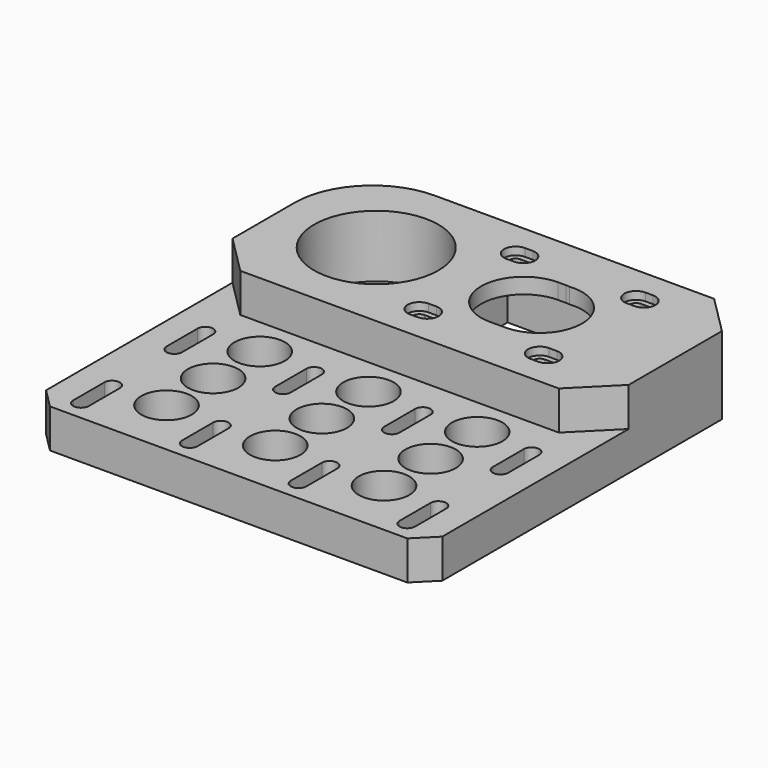
from build123d import *

# Parameters (mm, degrees)
SKETCH071_W                        = 102
SKETCH071_H                        = 105
SKETCH071_R                        = 11
SKETCH071_R_2                      = 13.5
PAD028_DEPTH                       = 20
SKETCH072_W                        = 102
SKETCH072_H                        = 55
POCKET037_DEPTH                    = 10
SKETCH073_W                        = 42
SKETCH073_H                        = 42
POCKET038_DEPTH                    = 16
POCKET039_DEPTH                    = 315.493809
POCKET039_LINEARPATTERN002_2_DEPTH = 315.493809
POCKET039_LINEARPATTERN002_3_DEPTH = 315.493809
POCKET039_LINEARPATTERN002_4_DEPTH = 315.493809
LINEARPATTERN003_COUNT             = 2
LINEARPATTERN003_PITCH             = 30
SKETCH075_R                        = 1.6
POCKET040_DEPTH                    = 4.001
CHAMFER006_SIZE                    = 5
CHAMFER007_SIZE                    = 10
FILLET004_R                        = 20
SKETCH076_R                        = 16
POCKET041_DEPTH                    = 16
SKETCH077_R                        = 3
POCKET042_DEPTH                    = 2
POCKET043_DEPTH                    = 4.001
SKETCH079_W                        = 4
SKETCH079_H                        = 42
POCKET044_DEPTH                    = 16
POCKET045_DEPTH                    = 2
POCKET046_DEPTH                    = 20.001
SKETCH082_R                        = 6.5
POCKET047_DEPTH                    = 8
SKETCH082_LINEARPATTERN004_2_R     = 6.5
POCKET047_LINEARPATTERN004_2_DEPTH = 8
SKETCH082_LINEARPATTERN004_3_R     = 6.5
POCKET047_LINEARPATTERN004_3_DEPTH = 8
LINEARPATTERN005_COUNT             = 3
LINEARPATTERN005_PITCH             = 15


with BuildPart() as part:
    # Sketch071 → Pad028 (new body)
    with BuildSketch(Plane.XY):
        with Locations((-14, -27.5)):
            Rectangle(SKETCH071_W, SKETCH071_H)
        with Locations((2, 0)):
            Circle(SKETCH071_R, mode=Mode.SUBTRACT)
        with Locations((-40, 0)):
            Circle(SKETCH071_R_2, mode=Mode.SUBTRACT)
    extrude(amount=PAD028_DEPTH)

    # Sketch072 (on Face8 of Pad028) → Pocket037 (cut)
    with BuildSketch(Plane.XY.offset(20)):
        with Locations((-14, -52.5)):
            Rectangle(SKETCH072_W, SKETCH072_H)
    extrude(amount=-POCKET037_DEPTH, mode=Mode.SUBTRACT)

    # Sketch073 (on Face2 of Pocket037) → Pocket038 (cut)
    with BuildSketch(Plane(origin=(0, 0, 0), x_dir=(1, 0, 0), z_dir=(0, 0, -1))):
        with Locations((2, 0)):
            Rectangle(SKETCH073_W, SKETCH073_H)
    extrude(amount=-POCKET038_DEPTH, mode=Mode.SUBTRACT)

    # Sketch074 (on Face2 of Pocket038) → Pocket039 (cut, through all)
    with BuildSketch(Plane(origin=(0, 0, 0), x_dir=(1, 0, 0), z_dir=(0, 0, -1))):
        with BuildLine():
            ThreePointArc((26, 35), (28, 33), (30, 35))
            Line((30, 35), (30, 45))
            ThreePointArc((30, 45), (28, 47), (26, 45))
            Line((26, 35), (26, 45))
        make_face()
    pocket039 = extrude(amount=-POCKET039_DEPTH, mode=Mode.SUBTRACT)

    # Sketch074 LinearPattern002 2 → Pocket039 LinearPattern002 2 (cut, through all)
    with BuildSketch(Plane(origin=(-28, 0, 0), x_dir=(1, 0, 0), z_dir=(0, 0, -1))):
        with BuildLine():
            ThreePointArc((26, 35), (28, 33), (30, 35))
            Line((30, 35), (30, 45))
            ThreePointArc((30, 45), (28, 47), (26, 45))
            Line((26, 35), (26, 45))
        make_face()
    pocket039_linearpattern002_2 = extrude(amount=-POCKET039_LINEARPATTERN002_2_DEPTH, mode=Mode.SUBTRACT)

    # Sketch074 LinearPattern002 3 → Pocket039 LinearPattern002 3 (cut, through all)
    with BuildSketch(Plane(origin=(-56, 0, 0), x_dir=(1, 0, 0), z_dir=(0, 0, -1))):
        with BuildLine():
            ThreePointArc((26, 35), (28, 33), (30, 35))
            Line((30, 35), (30, 45))
            ThreePointArc((30, 45), (28, 47), (26, 45))
            Line((26, 35), (26, 45))
        make_face()
    pocket039_linearpattern002_3 = extrude(amount=-POCKET039_LINEARPATTERN002_3_DEPTH, mode=Mode.SUBTRACT)

    # Sketch074 LinearPattern002 4 → Pocket039 LinearPattern002 4 (cut, through all)
    with BuildSketch(Plane(origin=(-84, 0, 0), x_dir=(1, 0, 0), z_dir=(0, 0, -1))):
        with BuildLine():
            ThreePointArc((26, 35), (28, 33), (30, 35))
            Line((30, 35), (30, 45))
            ThreePointArc((30, 45), (28, 47), (26, 45))
            Line((26, 35), (26, 45))
        make_face()
    pocket039_linearpattern002_4 = extrude(amount=-POCKET039_LINEARPATTERN002_4_DEPTH, mode=Mode.SUBTRACT)

    # LinearPattern003: Pocket039, Pocket039 LinearPattern002 2, Pocket039 LinearPattern002 3, Pocket039 LinearPattern002 4 ×2
    with Locations(*[(0, -i * LINEARPATTERN003_PITCH, 0) for i in range(1, LINEARPATTERN003_COUNT)]):
        add(pocket039, mode=Mode.SUBTRACT)
        add(pocket039_linearpattern002_2, mode=Mode.SUBTRACT)
        add(pocket039_linearpattern002_3, mode=Mode.SUBTRACT)
        add(pocket039_linearpattern002_4, mode=Mode.SUBTRACT)

    # Sketch075 (on Face46 of MultiTransform002) → Pocket040 (cut, through all)
    with BuildSketch(Plane(origin=(0, 0, 16), x_dir=(1, 0, 0), z_dir=(0, 0, -1))):
        with Locations((16.5, 15.5)):
            Circle(SKETCH075_R)
        with Locations((16.5, -15.5)):
            Circle(SKETCH075_R)
        with Locations((-14.5, -15.5)):
            Circle(SKETCH075_R)
        with Locations((-14.5, 15.5)):
            Circle(SKETCH075_R)
    extrude(amount=-POCKET040_DEPTH, mode=Mode.SUBTRACT)

    # Chamfer006
    chamfer006_edges = [part.edges().sort_by_distance(p)[0] for p in [
        (-65, -80, 5),
        (37, -80, 5),
    ]]
    chamfer(chamfer006_edges, length=CHAMFER006_SIZE)

    # Chamfer007
    chamfer007_edges = [part.edges().sort_by_distance(p)[0] for p in [
        (37, -25, 15),
        (37, 25, 10),
        (-65, -25, 15),
    ]]
    chamfer(chamfer007_edges, length=CHAMFER007_SIZE)

    # Fillet004
    fillet004_edges = [part.edges().sort_by_distance(p)[0] for p in [
        (-65, 25, 10),
    ]]
    fillet(fillet004_edges, radius=FILLET004_R)

    # Sketch076 (on Face47 of Fillet004) → Pocket041 (cut)
    with BuildSketch(Plane.XY.offset(20)):
        with Locations((-40, 0)):
            Circle(SKETCH076_R)
    extrude(amount=-POCKET041_DEPTH, mode=Mode.SUBTRACT)

    # Sketch077 (on Face47 of Pocket041) → Pocket042 (cut)
    with BuildSketch(Plane.XY.offset(20)):
        with Locations((16.5, 15.5)):
            Circle(SKETCH077_R)
        with Locations((-14.5, 15.5)):
            Circle(SKETCH077_R)
        with Locations((-14.5, -15.5)):
            Circle(SKETCH077_R)
        with Locations((16.5, -15.5)):
            Circle(SKETCH077_R)
    extrude(amount=-POCKET042_DEPTH, mode=Mode.SUBTRACT)

    # Sketch078 (on Face52 of Pocket042) → Pocket043 (cut, through all)
    with BuildSketch(Plane(origin=(0, 0, 16), x_dir=(1, 0, 0), z_dir=(0, 0, -1))):
        with BuildLine():
            ThreePointArc((-14.5, -17.1), (-12.9, -15.5), (-14.5, -13.9))
            Line((-14.5, -13.9), (-16.5, -13.9))
            ThreePointArc((-16.5, -13.9), (-18.1, -15.5), (-16.5, -17.1))
            Line((-14.5, -17.1), (-16.5, -17.1))
        make_face()
        with BuildLine():
            ThreePointArc((-14.5, 13.9), (-12.9, 15.5), (-14.5, 17.1))
            Line((-14.5, 17.1), (-16.5, 17.1))
            ThreePointArc((-16.5, 17.1), (-18.1, 15.5), (-16.5, 13.9))
            Line((-14.5, 13.9), (-16.5, 13.9))
        make_face()
        with BuildLine():
            ThreePointArc((16.5, 13.9), (18.1, 15.5), (16.5, 17.1))
            Line((16.5, 17.1), (14.5, 17.1))
            ThreePointArc((14.5, 17.1), (12.9, 15.5), (14.5, 13.9))
            Line((16.5, 13.9), (14.5, 13.9))
        make_face()
        with BuildLine():
            ThreePointArc((16.5, -17.1), (18.1, -15.5), (16.5, -13.9))
            Line((16.5, -13.9), (14.5, -13.9))
            ThreePointArc((14.5, -13.9), (12.9, -15.5), (14.5, -17.1))
            Line((16.5, -17.1), (14.5, -17.1))
        make_face()
    extrude(amount=-POCKET043_DEPTH, mode=Mode.SUBTRACT)

    # Sketch079 (on Face1 of Pocket043) → Pocket044 (cut)
    with BuildSketch(Plane(origin=(0, 0, 0), x_dir=(1, 0, 0), z_dir=(0, 0, -1))):
        with Locations((-21, 0)):
            Rectangle(SKETCH079_W, SKETCH079_H)
    extrude(amount=-POCKET044_DEPTH, mode=Mode.SUBTRACT)

    # Sketch080 (on Face49 of Pocket044) → Pocket045 (cut)
    with BuildSketch(Plane.XY.offset(20)):
        with BuildLine():
            ThreePointArc((-14.5, 12.5), (-11.5, 15.5), (-14.5, 18.5))
            Line((-14.5, 18.5), (-16.5, 18.5))
            ThreePointArc((-16.5, 18.5), (-19.5, 15.5), (-16.5, 12.5))
            Line((-14.5, 12.5), (-16.5, 12.5))
        make_face()
        with BuildLine():
            ThreePointArc((16.5, 12.5), (19.5, 15.5), (16.5, 18.5))
            Line((16.5, 18.5), (14.5, 18.5))
            ThreePointArc((14.5, 18.5), (11.5, 15.5), (14.5, 12.5))
            Line((16.5, 12.5), (14.5, 12.5))
        make_face()
        with BuildLine():
            ThreePointArc((-14.5, -18.5), (-11.5, -15.5), (-14.5, -12.5))
            Line((-14.5, -12.5), (-16.5, -12.5))
            ThreePointArc((-16.5, -12.5), (-19.5, -15.5), (-16.5, -18.5))
            Line((-14.5, -18.5), (-16.5, -18.5))
        make_face()
        with BuildLine():
            ThreePointArc((16.5, -18.5), (19.5, -15.5), (16.5, -12.5))
            Line((16.5, -12.5), (14.5, -12.5))
            ThreePointArc((14.5, -12.5), (11.5, -15.5), (14.5, -18.5))
            Line((16.5, -18.5), (14.5, -18.5))
        make_face()
    extrude(amount=-POCKET045_DEPTH, mode=Mode.SUBTRACT)

    # Sketch081 (on Face49 of Pocket045) → Pocket046 (cut, through all)
    with BuildSketch(Plane.XY.offset(20)):
        with BuildLine():
            ThreePointArc((0, -11), (11, 0), (0, 11))
            Line((0, 11), (-2, 11))
            ThreePointArc((-2, 11), (-13, 0), (-2, -11))
            Line((0, -11), (-2, -11))
        make_face()
    extrude(amount=-POCKET046_DEPTH, mode=Mode.SUBTRACT)

    # Sketch082 (on Face51 of Pocket046) → Pocket047 (cut)
    with BuildSketch(Plane.XY.offset(10)):
        with Locations((14, -65)):
            Circle(SKETCH082_R)
    pocket047 = extrude(amount=-POCKET047_DEPTH, mode=Mode.SUBTRACT)

    # Sketch082 LinearPattern004 2 → Pocket047 LinearPattern004 2 (cut)
    with BuildSketch(Plane(origin=(-28, 0, 10), x_dir=(1, 0, 0), z_dir=(0, 0, 1))):
        with Locations((14, -65)):
            Circle(SKETCH082_LINEARPATTERN004_2_R)
    pocket047_linearpattern004_2 = extrude(amount=-POCKET047_LINEARPATTERN004_2_DEPTH, mode=Mode.SUBTRACT)

    # Sketch082 LinearPattern004 3 → Pocket047 LinearPattern004 3 (cut)
    with BuildSketch(Plane(origin=(-56, 0, 10), x_dir=(1, 0, 0), z_dir=(0, 0, 1))):
        with Locations((14, -65)):
            Circle(SKETCH082_LINEARPATTERN004_3_R)
    pocket047_linearpattern004_3 = extrude(amount=-POCKET047_LINEARPATTERN004_3_DEPTH, mode=Mode.SUBTRACT)

    # LinearPattern005: Pocket047, Pocket047 LinearPattern004 2, Pocket047 LinearPattern004 3 ×3
    with Locations(*[(0, i * LINEARPATTERN005_PITCH, 0) for i in range(1, LINEARPATTERN005_COUNT)]):
        add(pocket047, mode=Mode.SUBTRACT)
        add(pocket047_linearpattern004_2, mode=Mode.SUBTRACT)
        add(pocket047_linearpattern004_3, mode=Mode.SUBTRACT)


solid = part.part
